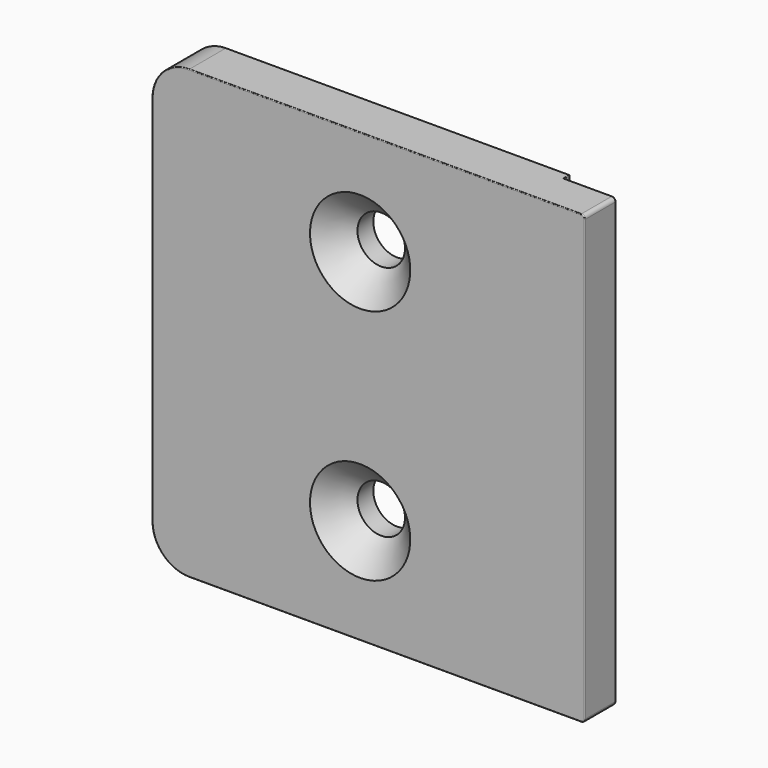
from build123d import *

# Parameters (mm, degrees)
F1_DEPTH       = 6.22
F2_W           = 7
F2_H           = 1
F3_DEPTH       = 60.201
F4_R           = 0.1
F6_D           = 6.4
F6_CSINK_D     = 13.5
F6_CSINK_ANGLE = 90


with BuildPart() as f1:
    # F0 (on Front) → F1 (new body)
    with BuildSketch(Plane.XZ):
        with BuildLine():
            Line((-53.25, 0), (-0.5, 0))
            ThreePointArc((-0.5, 0), (-0.1464466094, 0.1464466094), (0, 0.5))
            Line((0, 0.5), (0, 59.7))
            ThreePointArc((0, 59.7), (-0.1464466094, 60.0535533906), (-0.5, 60.2))
            Line((-0.5, 60.2), (-53.25, 60.2))
            ThreePointArc((-53.25, 60.2), (-56.7855339059, 58.7355339059), (-58.25, 55.2))
            Line((-58.25, 55.2), (-58.25, 5))
            ThreePointArc((-58.25, 5), (-56.7855339059, 1.4644660941), (-53.25, 0))
        make_face()
    extrude(amount=F1_DEPTH)

    # F2 (on face) → F3 (cut, through all)
    with BuildSketch(Plane.XY.offset(60.2)):
        with Locations((-3.5, -0.5)):
            Rectangle(F2_W, F2_H)
    extrude(amount=-F3_DEPTH, mode=Mode.SUBTRACT)

    # F4
    f4_edges = [f1.edges().sort_by_distance(p)[0] for p in [
        (-26.875, -6.22, 60.2),
        (-30.125, 0, 60.2),
        (-7, 0, 30.1),
        (-3.75, -1, 60.2),
        (-7, -0.5, 60.2),
        (-7, -0.5, 0),
        (-7, -1, 30.1),
    ]]
    fillet(f4_edges, radius=F4_R)

    # F6 (through all)
    with Locations(Plane.XZ.offset(6.22)):
        with Locations((-30.25, 46.05), (-30.25, 14.15)):
            CounterSinkHole(F6_D / 2, F6_CSINK_D / 2, counter_sink_angle=F6_CSINK_ANGLE)


solid = f1.part
